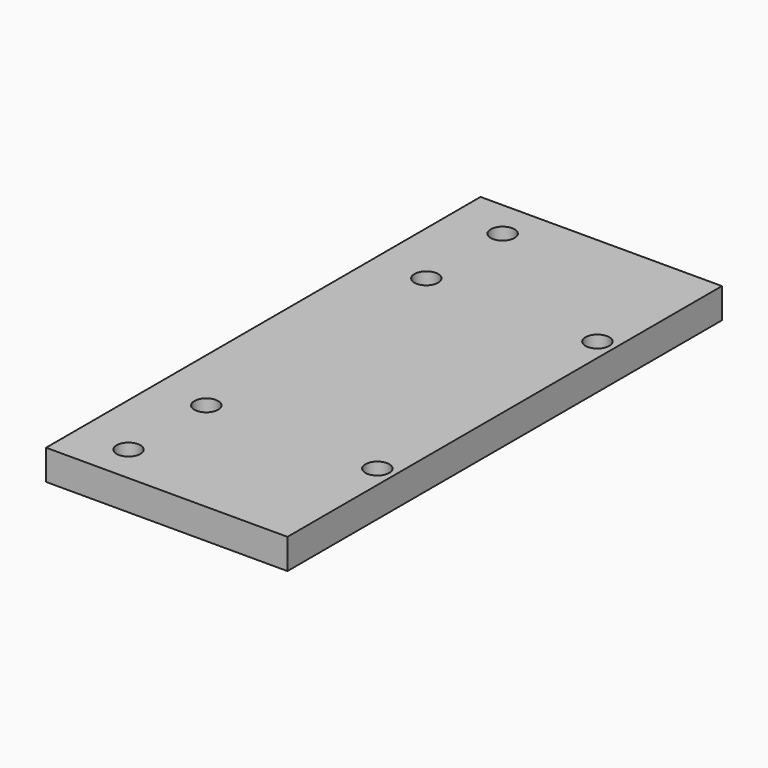
from build123d import *

# Parameters (mm, degrees)
F0_W     = 101.6
F0_H     = 12.7
F1_DEPTH = 228.6
F2_R     = 5
F3_DEPTH = 12.701


with BuildPart() as f1:
    # F0 (on Front) → F1 (new body)
    with BuildSketch(Plane.XZ):
        with Locations((-9.152951, -4.734359)):
            Rectangle(F0_W, F0_H)
    extrude(amount=F1_DEPTH)

    # F2 (on face) → F3 (cut, through all)
    with BuildSketch(Plane.XY.offset(1.615641)):
        with Locations((34.361049, -56.4097)):
            Circle(F2_R)
        with Locations((34.361049, -172.1905)):
            Circle(F2_R)
        with Locations((-37.640351, -56.4097)):
            Circle(F2_R)
        with Locations((-37.640351, -172.1905)):
            Circle(F2_R)
        with Locations((-37.953511, -212.725)):
            Circle(F2_R)
        with Locations((-37.953511, -15.875)):
            Circle(F2_R)
    extrude(amount=-F3_DEPTH, mode=Mode.SUBTRACT)


solid = f1.part
